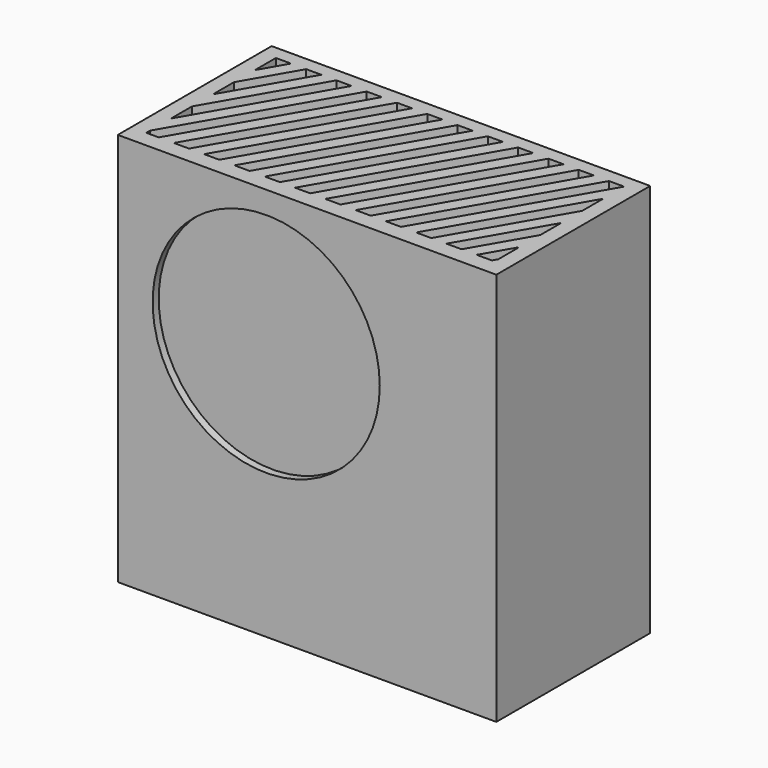
from build123d import *

# Parameters (mm, degrees)
F0_W     = 125
F0_H     = 100
F2_DEPTH = 63.5
F0_H_2   = 30
F3_DEPTH = 63.5
F1_R     = 37.5
F4_DEPTH = 2.5
F6_DEPTH = 5


with BuildPart() as f2:
    # F0 (on Front) → F2 (new body)
    with BuildSketch(Plane.XZ):
        with Locations((0, 17.5)):
            Rectangle(F0_W, F0_H)
    extrude(amount=-F2_DEPTH)

    # F0 (on Front) → F3 (join)
    with BuildSketch(Plane.XZ):
        with Locations((0, -47.5)):
            Rectangle(F0_W, F0_H_2)
    extrude(amount=-F3_DEPTH)

    # F1 (on Front) → F4 (cut, symmetric)
    with BuildSketch(Plane.XZ):
        with Locations((-13.5, 22.6666666667)):
            Circle(F1_R)
    extrude(amount=F4_DEPTH, both=True, mode=Mode.SUBTRACT)

    # F5 (on face) → F6 (cut)
    with BuildSketch(Plane.XY.offset(67.5)):
        Polygon((-57.5, 59), (-57.5, 50.3397459622), (-52.5, 59), align=None)
        Polygon((-57.5, 41.6794919243), (-57.5, 33.0192378865), (-42.5, 59), (-47.5, 59), align=None)
        Polygon((-57.5, 24.3589838486), (-57.5, 15.6987298108), (-32.5, 59), (-37.5, 59), align=None)
        Polygon((-27.5, 59), (-57.5, 7.0384757729), (-57.5, 5.5), (-53.3882394016, 5.5), (-22.5, 59), align=None)
        Polygon((-17.5, 59), (-48.3882394016, 5.5), (-43.3882394016, 5.5), (-12.5, 59), align=None)
        Polygon((-7.5, 59), (-38.3882394016, 5.5), (-33.3882394016, 5.5), (-2.5, 59), align=None)
        Polygon((2.5, 59), (-28.3882394016, 5.5), (-23.3882394016, 5.5), (7.5, 59), align=None)
        Polygon((-18.3882394016, 5.5), (-13.3882394016, 5.5), (17.5, 59), (12.5, 59), align=None)
        Polygon((-8.3882394016, 5.5), (-3.3882394016, 5.5), (27.5, 59), (22.5, 59), align=None)
        Polygon((1.6117605984, 5.5), (6.6117605984, 5.5), (37.5, 59), (32.5, 59), align=None)
        Polygon((11.6117605984, 5.5), (16.6117605984, 5.5), (47.5, 59), (42.5, 59), align=None)
        Polygon((21.6117605984, 5.5), (26.6117605984, 5.5), (57.5, 59), (52.5, 59), align=None)
        Polygon((31.6117605984, 5.5), (36.6117605984, 5.5), (57.5, 41.6794919243), (57.5, 50.3397459622), align=None)
        Polygon((41.6117605984, 5.5), (46.6117605984, 5.5), (57.5, 24.3589838486), (57.5, 33.0192378865), align=None)
        Polygon((51.6117605984, 5.5), (56.6117605984, 5.5), (57.5, 7.0384757729), (57.5, 15.6987298108), align=None)
    extrude(amount=-F6_DEPTH, mode=Mode.SUBTRACT)


solid = f2.part
